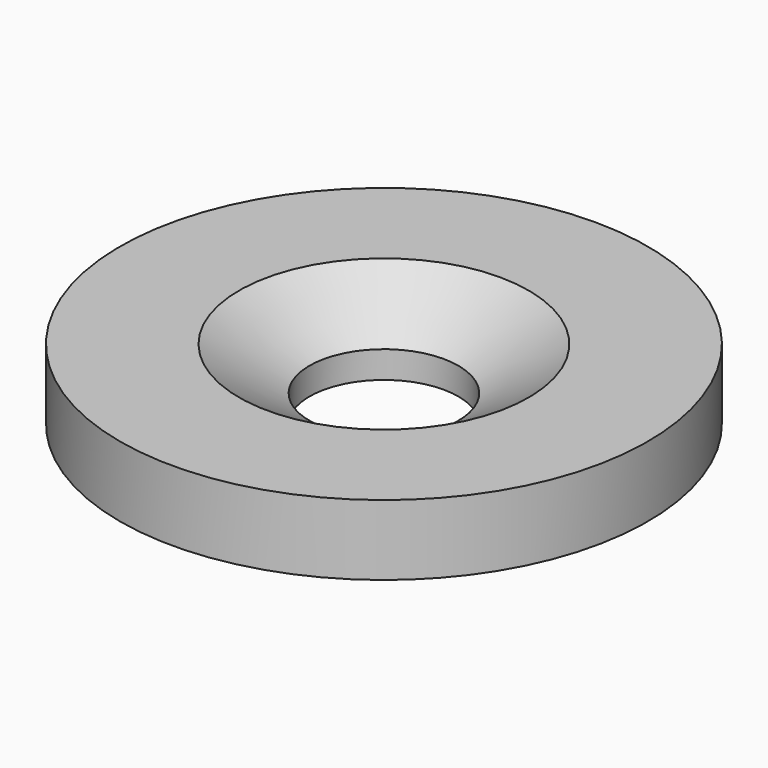
from build123d import *


with BuildPart() as part:
    # Sketch → Revolution (revolve)
    with BuildSketch(Plane.YZ):
        Polygon((2.75, 0), (9.75, 0), (9.75, 2.6), (5.35, 2.6), (2.75, 1), align=None)
    revolve(axis=Axis((0, 0, 0), (0, 0, 1)))


solid = part.part
